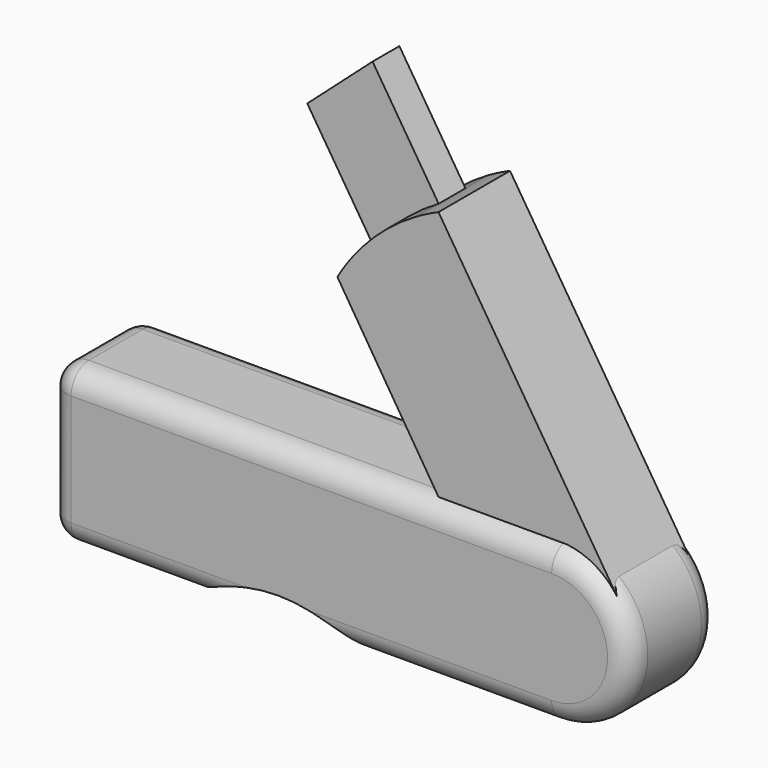
from build123d import *

# Parameters (mm, degrees)
F2_DEPTH = 6.35
F3_DEPTH = 1.905
F4_DEPTH = 5.08
F5_R     = 2.54


with BuildPart() as f2:
    # F0 (on Front) → F2 (new body, symmetric)
    with BuildSketch(Plane.XZ):
        with BuildLine():
            Line((28.575, 8.89), (-28.575, 8.89))
            Line((-28.575, 8.89), (-28.575, -8.89))
            Line((-28.575, -8.89), (-12.065, -8.89))
            ThreePointArc((-12.065, -8.89), (-2.54, -5.959902), (6.985, -8.89))
            Line((6.985, -8.89), (28.575, -8.89))
            ThreePointArc((28.575, -8.89), (37.465, 0), (28.575, 8.89))
        make_face()
    extrude(amount=F2_DEPTH, both=True)

    # F5
    f5_edges = [f2.edges().sort_by_distance(p)[0] for p in [
        (-28.575, 0, 8.89),
        (-28.575, 6.35, 0),
        (-28.575, 0, -8.89),
        (-28.575, -6.35, 0),
        (28.575, 0, 8.89),
        (0, 6.35, 8.89),
        (0, -6.35, 8.89),
        (-20.32, 6.35, -8.89),
        (-12.065, 0, -8.89),
        (-20.32, -6.35, -8.89),
    ]]
    fillet(f5_edges, radius=F5_R)


with BuildPart() as f3:
    # F1 (on Front) → F3 (new body, symmetric)
    with BuildSketch(Plane.XZ):
        with BuildLine():
            ThreePointArc((4.757753, 29.596718), (8.131813, 33.275813), (12.176494, 36.201658))
            Line((12.176494, 36.201658), (4.669598, 47.983314))
            Line((4.669598, 47.983314), (-2.749143, 41.378374))
            Line((-2.749143, 41.378374), (4.757753, 29.596718))
        make_face()
    extrude(amount=F3_DEPTH, both=True)


with BuildPart() as f4:
    # F1 (on Front) → F4 (new body, symmetric)
    with BuildSketch(Plane.XZ):
        with BuildLine():
            ThreePointArc((29.252851, 8.978334), (32.632292, 7.844278), (35.174159, 5.345156))
            Line((35.174159, 5.345156), (14.700807, 37.476945))
            ThreePointArc((14.700807, 37.476945), (13.42039, 36.875447), (12.176494, 36.201658))
            ThreePointArc((12.176494, 36.201658), (8.131813, 33.275813), (4.757753, 29.596718))
            ThreePointArc((4.757753, 29.596718), (3.950986, 28.448768), (3.210678, 27.256875))
            Line((3.210678, 27.256875), (14.700807, 8.978334))
            Line((14.700807, 8.978334), (29.252851, 8.978334))
        make_face()
    extrude(amount=F4_DEPTH, both=True)


solid = Compound([f2.part, f3.part, f4.part])
